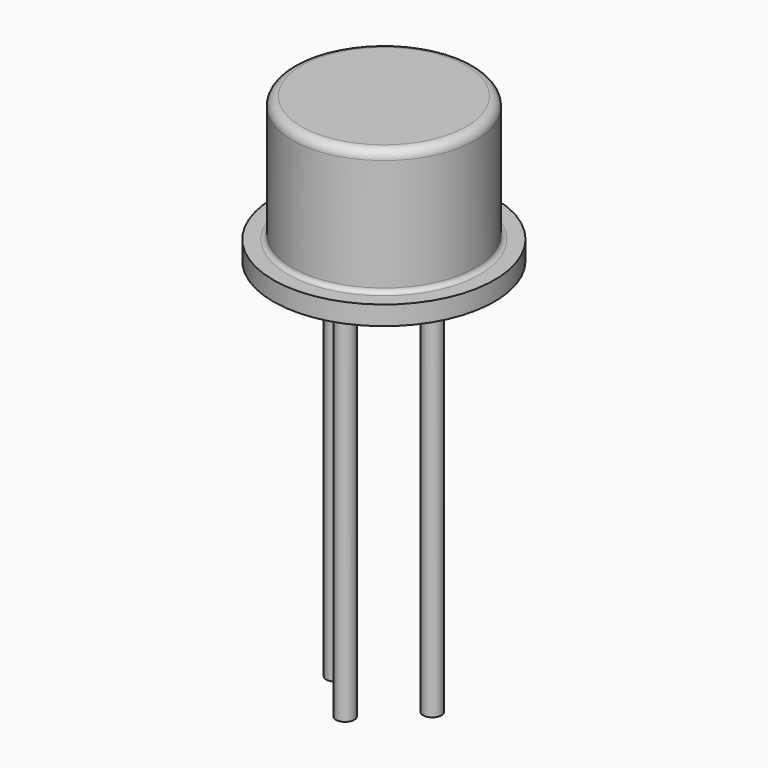
from build123d import *

# Parameters (mm, degrees)
SKETCH_R     = 0.24
PAD_DEPTH    = 10
PAD003_DEPTH = 0.5


with BuildPart() as pad:
    # Sketch → Pad (new body)
    with BuildSketch(Plane.XY.offset(5)):
        Circle(SKETCH_R)
        with Locations((2.54, 0)):
            Circle(SKETCH_R)
        with Locations((1.27, -1.27)):
            Circle(SKETCH_R)
    extrude(amount=-PAD_DEPTH)


with BuildPart() as revolution:
    # Sketch003 → Revolution (revolve)
    with BuildSketch(Plane.XZ):
        with BuildLine():
            Line((1.27, 5), (-1.63, 5))
            Line((-1.63, 5), (-1.63, 5.5))
            Line((-1.63, 5.5), (-1.246699, 5.503024))
            ThreePointArc((-1.246699, 5.503024), (-1.164125, 5.537801), (-1.13, 5.620646))
            Line((-1.13, 5.620646), (-1.13, 8.561603))
            ThreePointArc((-0.891603, 8.8), (-1.060175, 8.730175), (-1.13, 8.561603))
            Line((-0.891603, 8.8), (1.27, 8.8))
            Line((1.27, 8.8), (1.27, 5))
        make_face()
    revolve(axis=Axis((1.27, 0, 2.550668), (0, 0, 1)))


with BuildPart() as pad003:
    # Sketch004 → Pad003 (new body)
    with BuildSketch(Plane.XY.offset(5)):
        Polygon((1.680122, 0.410122), (-1.197803, 3.288047), (-2.018047, 2.467803), (0.859878, -0.410122), align=None)
    extrude(amount=PAD003_DEPTH)


solid = Compound([pad.part, revolution.part, pad003.part])
